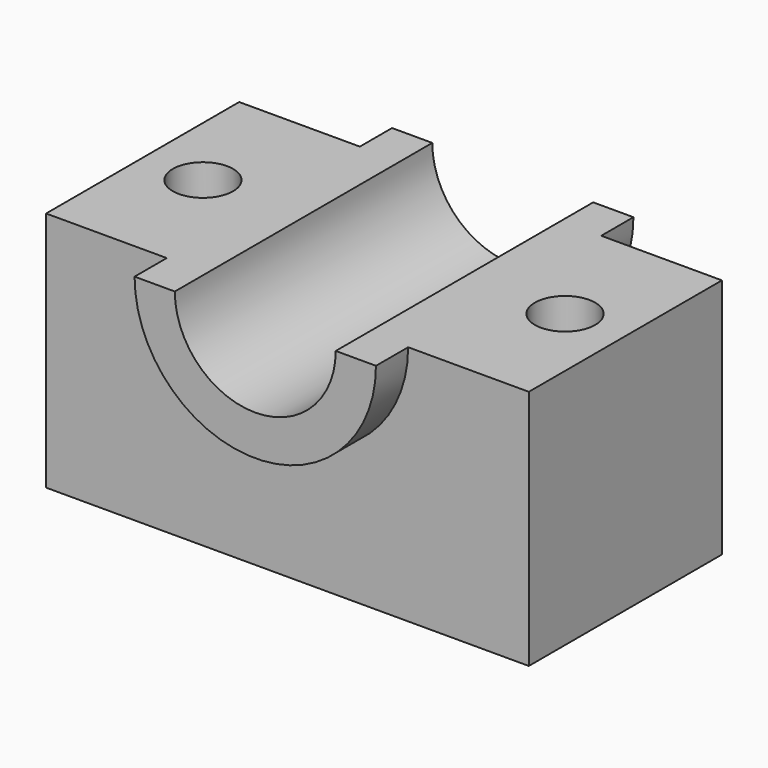
from build123d import *

# Parameters (mm, degrees)
F1_DEPTH      = 38.1
F3_DEPTH      = 12.7
F3_DEPTH_BACK = 88.9
F4_R          = 9.525
F5_R          = 9.525
F6_DEPTH      = 113.03


with BuildPart() as f1:
    # F0 (on Front) → F1 (new body, symmetric)
    with BuildSketch(Plane.XZ):
        with BuildLine():
            Line((-76.2, 38.1), (-76.2, -38.1))
            Line((-76.2, -38.1), (76.2, -38.1))
            Line((76.2, -38.1), (76.2, 38.1))
            Line((76.2, 38.1), (38.1, 38.1))
            ThreePointArc((38.1, 38.1), (0, 0), (-38.1, 38.1))
            Line((-38.1, 38.1), (-76.2, 38.1))
        make_face()
    extrude(amount=F1_DEPTH, both=True)

    # F2 (on face) → F3 (join, two sides)
    with BuildSketch(Plane.XZ.offset(38.1)) as f3_sk:
        with BuildLine():
            Line((-25.4, 38.1), (-38.1, 38.1))
            ThreePointArc((-38.1, 38.1), (0, 0), (38.1, 38.1))
            Line((38.1, 38.1), (25.4, 38.1))
            ThreePointArc((25.4, 38.1), (0, 12.7), (-25.4, 38.1))
        make_face()
    extrude(amount=F3_DEPTH)
    extrude(f3_sk.sketch, amount=-F3_DEPTH_BACK)

    # F4 (on face) + F5 (on face) → F6 (cut)
    with BuildSketch(Plane.XY.offset(38.1)):
        with Locations((-57.15, 0)):
            Circle(F4_R)
    with BuildSketch(Plane.XY.offset(38.1)):
        with Locations((57.15, 0)):
            Circle(F5_R)
    extrude(amount=-F6_DEPTH, mode=Mode.SUBTRACT)


solid = f1.part
